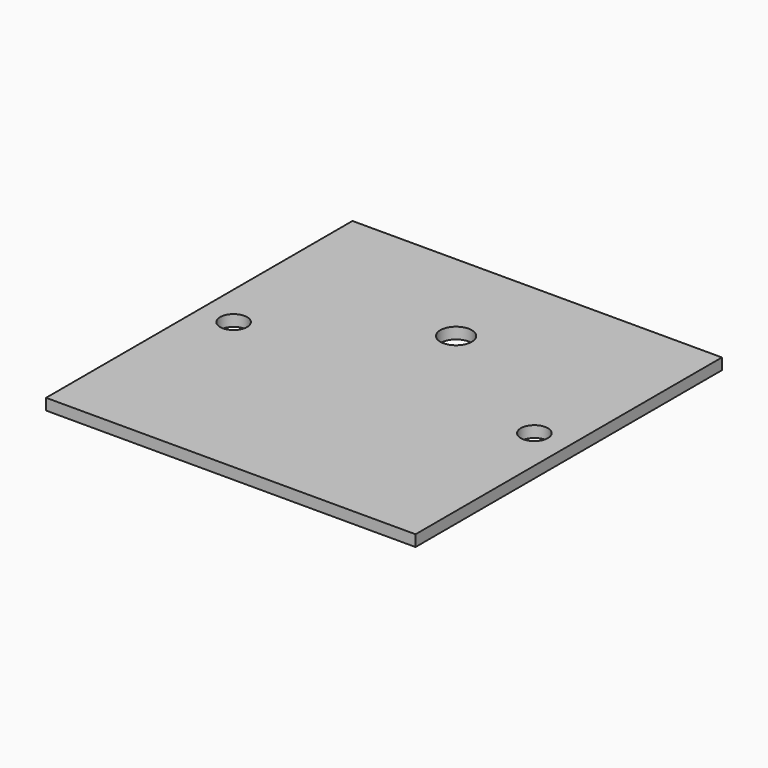
from build123d import *

# Parameters (mm, degrees)
F0_W     = 164
F0_H     = 170
F0_R     = 6
F0_R_2   = 7
F1_DEPTH = 5
F2_W     = 20
F2_H     = 5
F3_DEPTH = 0.01


with BuildPart() as f1:
    # F0 (on Top) → F1 (new body)
    with BuildSketch(Plane.XY):
        Rectangle(F0_W, F0_H)
        with Locations((-66.75, 0)):
            Circle(F0_R, mode=Mode.SUBTRACT)
        with Locations((0, 40)):
            Circle(F0_R_2, mode=Mode.SUBTRACT)
        with Locations((66.75, 0)):
            Circle(F0_R, mode=Mode.SUBTRACT)
    extrude(amount=F1_DEPTH)

    # F2 (on face) → F3 (join)
    with BuildSketch(Plane(origin=(0, 85, 0), x_dir=(-1, 0, 0), z_dir=(0, 1, 0))):
        with Locations((72, 2.5)):
            Rectangle(F2_W, F2_H)
        with Locations((-72, 2.5)):
            Rectangle(F2_W, F2_H)
    extrude(amount=-F3_DEPTH)


solid = f1.part
